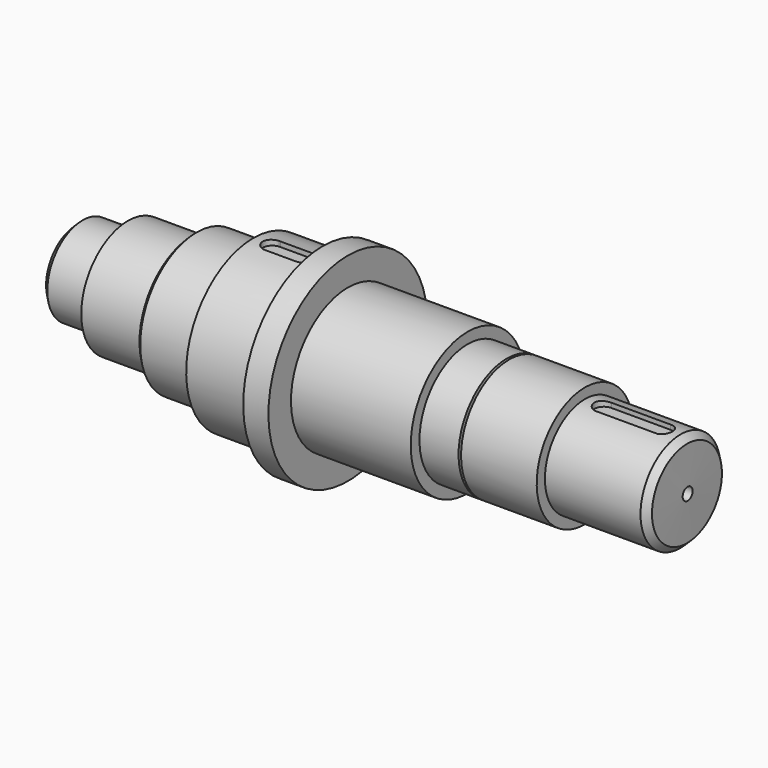
from build123d import *

# Parameters (mm, degrees)
F2_SIZE  = 5
F3_SIZE  = 5
F4_SIZE  = 3
F7_DEPTH = 32
F9_DEPTH = 5


with BuildPart() as f1:
    # F0 (on Front) → F1 (revolve)
    with BuildSketch(Plane.XZ):
        Polygon((-232.2130019963, 17.678354606), (-232.2130019963, -12.321645394), (252.7869980037, -12.321645394), (252.1408498287, 22.3974585533), (171.2869980037, 22.3974585533), (171.2869980037, 30.5355489254), (111.2869980037, 30.5355489254), (111.2869980037, 23.4147198498), (109.2869980037, 23.4147198498), (109.2869980037, 30.5355489254), (78.2869980037, 30.5355489254), (78.2869980037, 39.1822680831), (-16.7130019963, 39.1822680831), (-16.7130019963, 61.5620166063), (-36.7130019963, 61.5620166063), (-36.7130019963, 49.3548810482), (-91.7130019963, 49.3548810482), (-91.7130019963, 38.6736355722), (-139.7130019963, 38.6736355722), (-139.7130019963, 29.0096569806), (-191.2130019963, 29.0096569806), (-191.2130019963, 17.678354606), align=None)
    revolve(axis=Axis((10.0326761603, 0, -17.275730148), (1, 0, 0)))

    # F2
    f2_edges = [f1.edges().sort_by_distance(p)[0] for p in [
        (-232.213002, 0, -52.229815),
    ]]
    chamfer(f2_edges, length=F2_SIZE)

    # F3
    f3_edges = [f1.edges().sort_by_distance(p)[0] for p in [
        (252.14085, 0, -56.948919),
    ]]
    chamfer(f3_edges, length=F3_SIZE)

    # F4
    f4_edges = [f1.edges().sort_by_distance(p)[0] for p in [
        (-139.713002, 0, -73.225096),
    ]]
    chamfer(f4_edges, length=F4_SIZE)

    # F6 (on offset) → F7 (cut)
    with BuildSketch(Plane.XY.offset(50)):
        with BuildLine():
            Line((233.2867880477, 7.4999999971), (186.4272663162, 7.4986882053))
            ThreePointArc((186.4272663162, 7.4986882053), (178.8117069281, -0.608295434), (187.6377915852, -7.3773543158))
            Line((187.6377915852, -7.3773543158), (231.9362044222, -7.3773543158))
            Line((231.9362044222, -7.3773543158), (234.6377915852, -7.3773543158))
            ThreePointArc((234.6377915852, -7.3773543158), (240.7562641571, 0.6782795371), (233.2867880477, 7.4999999971))
        make_face()
    extrude(amount=-F7_DEPTH, mode=Mode.SUBTRACT)

    # F8 (on offset) → F9 (cut)
    with BuildSketch(Plane.XY.offset(50)):
        with BuildLine():
            Line((-76.4573437408, -7.4956413239), (-51.7143231445, -7.4999998836))
            ThreePointArc((-51.7143231445, -7.4999998836), (-44.2130030543, 0.003983777), (-51.7222906966, 7.499994248))
            Line((-51.7222906966, 7.499994248), (-76.0414618998, 7.4698750926))
            Line((-76.0414618998, 7.4698750926), (-77.4030428, 7.4681887824))
            ThreePointArc((-77.4030428, 7.4681887824), (-84.1980687904, -0.4730487165), (-76.4573437408, -7.4956413239))
        make_face()
    extrude(amount=-F9_DEPTH, mode=Mode.SUBTRACT)


solid = f1.part
